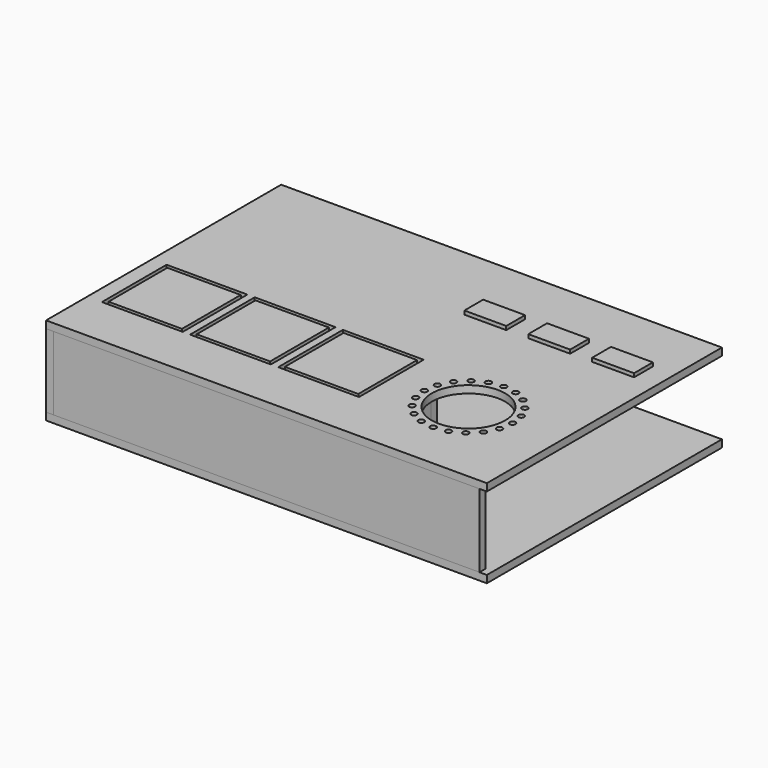
from build123d import *

# Parameters (mm, degrees)
F0_W      = 600
F0_H      = 400
F1_DEPTH  = 10
F2_W      = 400
F2_H      = 100
F3_DEPTH  = 10
F4_W      = 580
F4_H      = 100
F5_DEPTH  = 10
F6_W      = 600
F6_H      = 400
F7_DEPTH  = 10
F8_W      = 110
F8_H      = 110
F8_W_2    = 100
F8_H_2    = 100
F9_DEPTH  = 10
F10_W     = 10
F10_H     = 110
F11_DEPTH = 100
F12_W     = 370
F12_H     = 10
F13_DEPTH = 100
F14_R     = 50
F14_R_2   = 4
F15_DEPTH = 10
F16_W     = 57
F16_H     = 32
F17_DEPTH = 5


with BuildPart() as f1:
    # F0 (on Top) → F1 (new body)
    with BuildSketch(Plane.XY):
        with Locations((300, 200)):
            Rectangle(F0_W, F0_H)
    extrude(amount=-F1_DEPTH)


with BuildPart() as f3:
    # F2 (on Right) → F3 (new body)
    with BuildSketch(Plane.YZ):
        with Locations((200, 50)):
            Rectangle(F2_W, F2_H)
    extrude(amount=F3_DEPTH)


with BuildPart() as f5:
    # F4 (on Front) → F5 (new body)
    with BuildSketch(Plane.XZ):
        with Locations((300, 50)):
            Rectangle(F4_W, F4_H)
    extrude(amount=-F5_DEPTH)


with BuildPart() as f7:
    # F6 (on face) → F7 (new body)
    with BuildSketch(Plane.XY.offset(100)):
        with Locations((300, 200)):
            Rectangle(F6_W, F6_H)
    extrude(amount=F7_DEPTH)

    # F8 (on face) → F9 (cut, through all)
    with BuildSketch(Plane.XY.offset(110)):
        with Locations((75, 125)):
            Rectangle(F8_W, F8_H)
        with Locations((75, 125)):
            Rectangle(F8_W_2, F8_H_2, mode=Mode.SUBTRACT)
        with Locations((195, 125)):
            Rectangle(F8_W, F8_H)
        with Locations((195, 125)):
            Rectangle(F8_W_2, F8_H_2, mode=Mode.SUBTRACT)
        with Locations((315, 125)):
            Rectangle(F8_W, F8_H)
        with Locations((315, 125)):
            Rectangle(F8_W_2, F8_H_2, mode=Mode.SUBTRACT)
    extrude(amount=-F9_DEPTH, mode=Mode.SUBTRACT)

    # F14 (on face) → F15 (cut, through all)
    with BuildSketch(Plane.XY.offset(110)):
        with Locations((475, 125)):
            Circle(F14_R)
        with Locations((415, 125)):
            Circle(F14_R_2)
        with Locations((417.9366090223, 106.4589803375)):
            Circle(F14_R_2)
        with Locations((426.4589803375, 89.7328848625)):
            Circle(F14_R_2)
        with Locations((439.7328848625, 76.4589803375)):
            Circle(F14_R_2)
        with Locations((456.4589803375, 67.9366090223)):
            Circle(F14_R_2)
        with Locations((475, 65)):
            Circle(F14_R_2)
        with Locations((493.5410196625, 67.9366090223)):
            Circle(F14_R_2)
        with Locations((510.2671151375, 76.4589803375)):
            Circle(F14_R_2)
        with Locations((523.5410196625, 89.7328848625)):
            Circle(F14_R_2)
        with Locations((532.0633909777, 106.4589803375)):
            Circle(F14_R_2)
        with Locations((523.5410196625, 160.2671151375)):
            Circle(F14_R_2)
        with Locations((510.2671151375, 173.5410196625)):
            Circle(F14_R_2)
        with Locations((493.5410196625, 182.0633909777)):
            Circle(F14_R_2)
        with Locations((475, 185)):
            Circle(F14_R_2)
        with Locations((456.4589803375, 182.0633909777)):
            Circle(F14_R_2)
        with Locations((439.7328848625, 173.5410196625)):
            Circle(F14_R_2)
        with Locations((426.4589803375, 160.2671151375)):
            Circle(F14_R_2)
        with Locations((417.9366090223, 143.5410196625)):
            Circle(F14_R_2)
        with Locations((535, 125)):
            Circle(F14_R_2)
        with Locations((532.0633909777, 143.5410196625)):
            Circle(F14_R_2)
    extrude(amount=-F15_DEPTH, mode=Mode.SUBTRACT)


with BuildPart() as f11:
    # F10 (on face) → F11 (new body, through all)
    with BuildSketch(Plane(origin=(0, 0, 100), x_dir=(1, 0, 0), z_dir=(0, 0, -1))):
        with Locations((135, -125)):
            Rectangle(F10_W, F10_H)
    extrude(amount=F11_DEPTH)


with BuildPart() as f11b:
    # F10 (on face) → F11, piece 2 (new body, through all)
    with BuildSketch(Plane(origin=(0, 0, 100), x_dir=(1, 0, 0), z_dir=(0, 0, -1))):
        with Locations((255, -125)):
            Rectangle(F10_W, F10_H)
    extrude(amount=F11_DEPTH)


with BuildPart() as f11c:
    # F10 (on face) → F11, piece 3 (new body, through all)
    with BuildSketch(Plane(origin=(0, 0, 100), x_dir=(1, 0, 0), z_dir=(0, 0, -1))):
        with Locations((375, -125)):
            Rectangle(F10_W, F10_H)
    extrude(amount=F11_DEPTH)


with BuildPart() as f13:
    # F12 (on face) → F13 (new body, through all)
    with BuildSketch(Plane(origin=(0, 0, 100), x_dir=(1, 0, 0), z_dir=(0, 0, -1))):
        with Locations((195, -185)):
            Rectangle(F12_W, F12_H)
    extrude(amount=F13_DEPTH)


with BuildPart() as f13b:
    # F12 (on face) → F13, piece 2 (new body, through all)
    with BuildSketch(Plane(origin=(0, 0, 100), x_dir=(1, 0, 0), z_dir=(0, 0, -1))):
        with Locations((195, -65)):
            Rectangle(F12_W, F12_H)
    extrude(amount=F13_DEPTH)


with BuildPart() as f17:
    # F16 (on face) → F17 (new body)
    with BuildSketch(Plane.XY.offset(110)):
        with Locations((541.5, 304)):
            Rectangle(F16_W, F16_H)
    extrude(amount=F17_DEPTH)


with BuildPart() as f17b:
    # F16 (on face) → F17, piece 2 (new body)
    with BuildSketch(Plane.XY.offset(110)):
        with Locations((454.5, 304)):
            Rectangle(F16_W, F16_H)
    extrude(amount=F17_DEPTH)


with BuildPart() as f17c:
    # F16 (on face) → F17, piece 3 (new body)
    with BuildSketch(Plane.XY.offset(110)):
        with Locations((367.5, 304)):
            Rectangle(F16_W, F16_H)
    extrude(amount=F17_DEPTH)


solid = Compound([f1.part, f3.part, f5.part, f7.part, f11.part, f11b.part, f11c.part, f13.part, f13b.part, f17.part, f17b.part, f17c.part])
